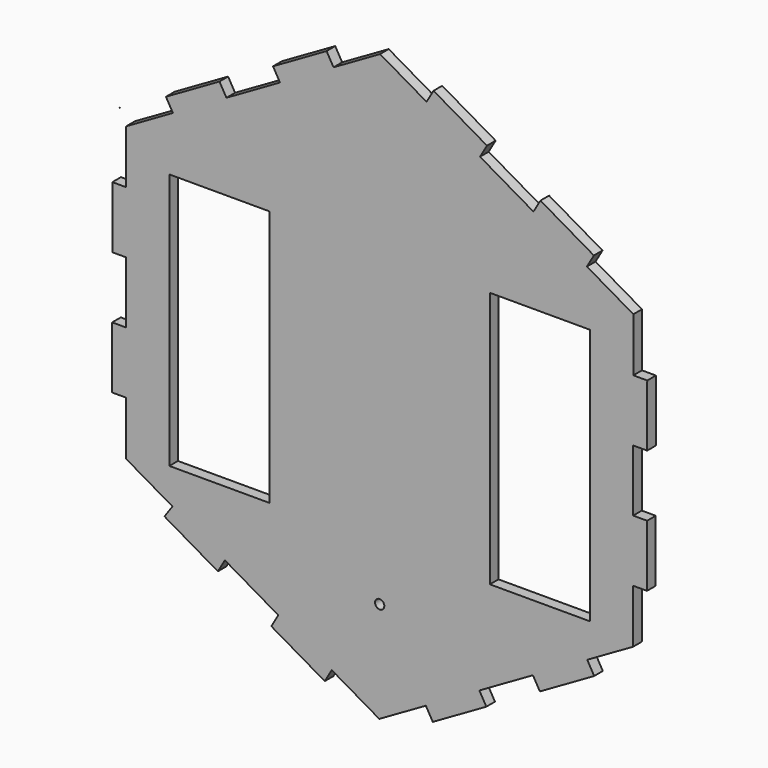
from build123d import *

# Parameters (mm, degrees)
F1_DEPTH = 3.5
F2_W     = 32.432
F2_H     = 83.108
F2_R     = 1.5
F3_DEPTH = 25


with BuildPart() as f1:
    # F0 (on Front) → F1 (new body)
    with BuildSketch(Plane.XZ):
        Polygon((0.1341714472, 99.9999099901), (-86.5353767039, 50.1161508768), (-86.6695481512, -49.8837591133), (-0.1341714472, -99.9999099901), (86.5353767039, -50.1161508768), (86.6695481512, 49.8837591133), align=None)
    extrude(amount=F1_DEPTH)

    # F2 (on face) → F3 (cut)
    with BuildSketch(Plane.XZ.offset(3.5)):
        with Locations((-51.8915, -3.239445617)):
            Rectangle(F2_W, F2_H)
        with Locations((51.8915, -3.239445617)):
            Rectangle(F2_W, F2_H)
        Polygon((86.6591921006, 49.8897567227), (69.3598837978, 59.908488691), (67.1046570083, 56.0143967393), (82.1427259648, 47.3052403061), (82.1427259648, 49.8958165361), align=None)
        Polygon((84.4117323491, 45.9911665639), (82.1427259648, 47.3052403061), (82.1427259648, 29.8958165361), (86.6427219143, 29.889778821), (86.6695481512, 49.8837591133), (86.6669591385, 49.8852585156), align=None)
        Polygon((86.5890533596, -10.1101671731), (86.6158876249, 9.889796823), (82.08905741, 9.8958705421), (82.08905741, -10.1041294579), align=None)
        Polygon((67.2057800545, -56.0494106432), (69.4505492146, -59.94954031), (86.5353767039, -50.1161508768), (82.0622190701, -50.1101491711), (82.0622190701, -47.4985984959), align=None)
        Polygon((86.5361479024, -49.5413655641), (86.5622190701, -30.1101491711), (82.0622190701, -30.1101491711), (82.0622190701, -47.4985984959), (84.5396896847, -46.0726588206), align=None)
        Polygon((32.2888786531, -76.146276678), (34.5336478132, -80.0464063448), (51.8675574435, -70.0696545221), (49.6227882834, -66.1695248553), align=None)
        Polygon((-15.5233852921, -85.8872059211), (-17.7786120815, -89.7812978727), (-0.4715367407, -99.8045280481), (-0.3587329239, -99.6097501051), (-2.3789406073, -96.0997803233), (-0.1271996943, -94.8037622444), align=None)
        Polygon((-82.1427179363, -49.8898328323), (-86.6695481512, -49.8837591133), (-52.3961295985, -69.7328876509), (-69.6945489914, -59.6947261406), (-67.1072460209, -56.0128973369), (-82.1427179363, -47.3052449557), align=None)
        Polygon((-82.1427179363, -29.8898328323), (-86.6427138859, -29.8837951172), (-86.6695481512, -49.8837591133), (-84.4143213617, -45.9896671616), (-82.1427179363, -47.3052449557), align=None)
        Polygon((-82.1158836469, 10.1101491657), (-86.5890453311, 10.1161508768), (-86.6026183294, 0), (-86.6158795964, -9.8838131192), (-82.1158836469, -9.8898508343), align=None)
        Polygon((-84.2906075438, 46.21602121), (-86.5318912591, 50.1100951597), (-86.535384829, 50.1100951597), (-86.5622109934, 30.1161688788), (-82.0622150921, 30.1161688788), (-82.0622150921, 47.4986007854), align=None)
        Polygon((-69.2014670737, 60.0929026995), (-86.5353767039, 50.1161508768), (-86.5318912591, 50.1100951597), (-82.0622150921, 50.1100951597), (-82.0622150921, 47.4986007854), (-66.9566979136, 56.1927730327), align=None)
        Polygon((-34.5336478132, 80.0464063448), (-51.8675574435, 70.0696545221), (-49.6227882834, 66.1695248553), (-32.2888786531, 76.146276678), align=None)
        Polygon((0.1341714472, 99.9999099901), (-17.199738183, 90.0231581674), (-14.9549690229, 86.1230285006), (0.1271996943, 94.8037622444), (-2.1236443549, 96.1073174408), align=None)
        Polygon((17.4386577754, 89.9781792171), (0.1341714472, 99.9999099901), (2.3789406073, 96.0997803233), (0.1271996943, 94.8037622444), (15.1834309859, 86.0840872654), align=None)
        Polygon((43.4253037415, 74.9282572126), (34.7457331162, 79.9549490417), (32.4905063267, 76.06085709), (49.7975816675, 66.0376269147), (52.052808457, 69.9317188663), align=None)
        Polygon((-50.1288800257, -65.8258142354), (-52.3961295985, -69.7328876509), (-35.0856874223, -79.7580676974), (-32.8304606328, -75.8639757457), align=None)
        Polygon((-84.4143213617, -45.9896671616), (-86.6695481512, -49.8837591133), (-82.1427179363, -49.8898328323), (-82.1427179363, -47.3052449557), align=None)
        Polygon((-82.0622150921, 50.1100951597), (-86.5318912591, 50.1100951597), (-84.2906075438, 46.21602121), (-82.0622150921, 47.4986007854), align=None)
        Polygon((2.3789406073, 96.0997803233), (0.1341714472, 99.9999099901), (-2.1236443549, 96.1073174408), (0.1271996943, 94.8037622444), align=None)
        Polygon((86.6669591385, 49.8852585156), (86.6591921006, 49.8897567227), (82.1427259648, 49.8958165361), (82.1427259648, 47.3052403061), (84.4117323491, 45.9911665639), align=None)
        Polygon((86.5353767039, -50.1161508768), (86.5361479024, -49.5413655641), (84.5396896847, -46.0726588206), (82.0622190701, -47.4985984959), (82.0622190701, -50.1101491711), align=None)
        Polygon((1.7836900487, -95.9104360964), (-0.1271996943, -94.8037622444), (-2.3789406073, -96.0997803233), (-0.3587329239, -99.6097501051), align=None)
        Polygon((14.9549690229, -86.1230285006), (-0.1271996943, -94.8037622444), (1.7836900487, -95.9104360964), (-0.3587329239, -99.6097501051), (-0.1341714472, -99.9999099901), (17.199738183, -90.0231581674), align=None)
        Polygon((-0.3587329239, -99.6097501051), (-0.4715367407, -99.8045280481), (-0.1341714472, -99.9999099901), align=None)
        with Locations((0, -62.0760797054)):
            Circle(F2_R)
    extrude(amount=-F3_DEPTH, mode=Mode.SUBTRACT)


solid = f1.part
